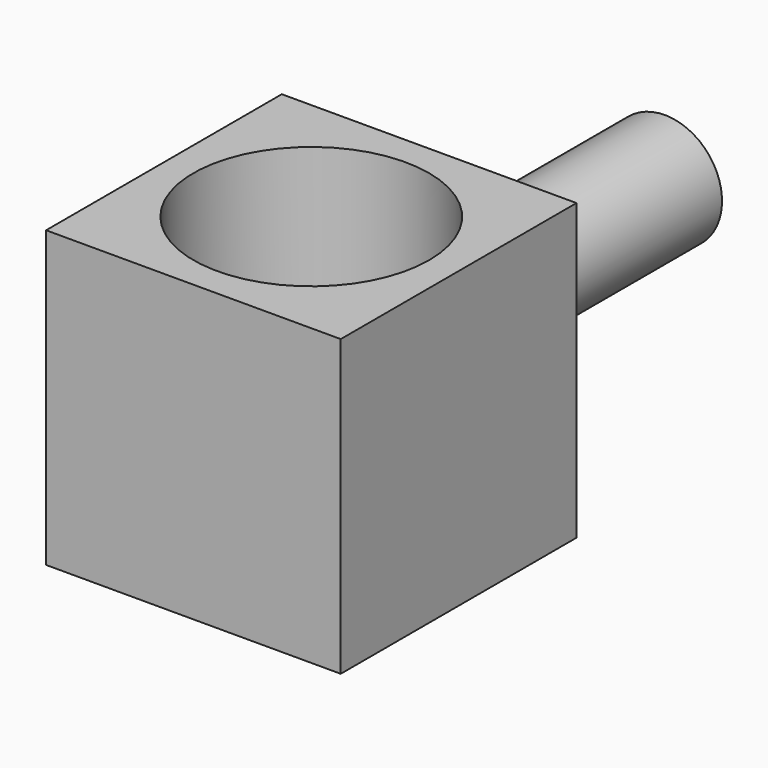
from build123d import *

# Parameters (mm, degrees)
BOX_W        = 10
BOX_H        = 10
BOX_DEPTH    = 10
SKETCH_R     = 4
POCKET_DEPTH = 15
SKETCH001_R  = 1.94
PAD_DEPTH    = 10


with BuildPart() as part:
    # Box → Box (new body)
    with BuildSketch(Plane.XY):
        with Locations((5, 5)):
            Rectangle(BOX_W, BOX_H)
    extrude(amount=BOX_DEPTH)

    # Sketch (on Face6 of BaseFeature) → Pocket (cut)
    with BuildSketch(Plane.XY.offset(10)):
        with Locations((5, 5)):
            Circle(SKETCH_R)
    extrude(amount=-POCKET_DEPTH, mode=Mode.SUBTRACT)

    # Sketch001 (on Face4 of Pocket) → Pad (join)
    with BuildSketch(Plane(origin=(0, 10, 0), x_dir=(-1, 0, 0), z_dir=(0, 1, 0))):
        with Locations((-5, 5)):
            Circle(SKETCH001_R)
    extrude(amount=PAD_DEPTH)


solid = part.part
